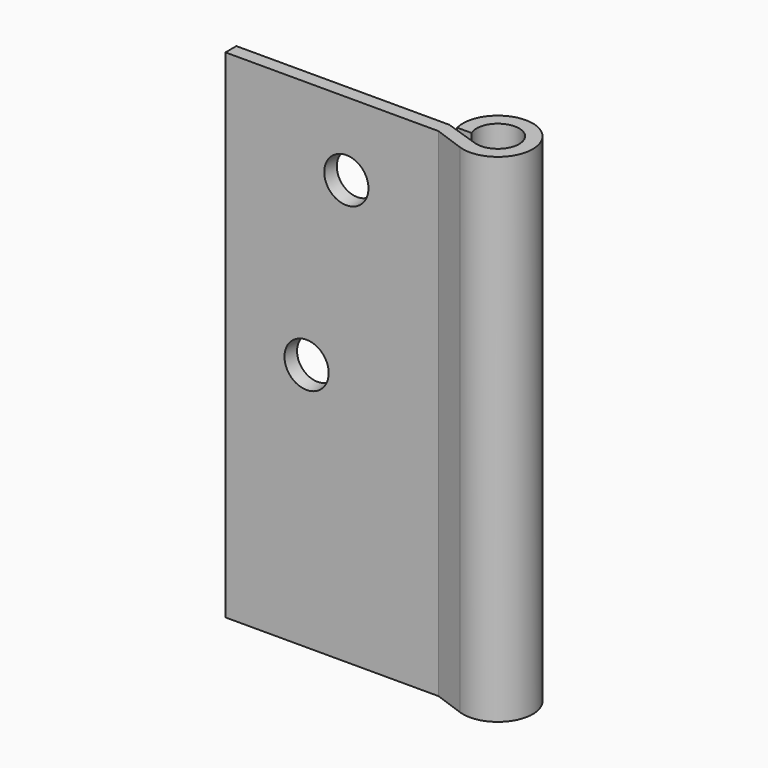
from build123d import *

# Parameters (mm, degrees)
F1_DEPTH = 292
F3_R     = 12
F2_R     = 12.973192
F2_R_2   = 12.9794


with BuildPart() as f1:
    # F0 (on Top) → F1 (new body)
    with BuildSketch(Plane.XY):
        with BuildLine():
            Line((20.542224, -6.856897), (0, 0))
            Line((0, 0), (-125, 0))
            Line((-125, 0), (-125, -8))
            Line((-125, -8), (0, -8))
            Line((0, -8), (17.58743, -14.299388))
            ThreePointArc((17.58743, -14.299388), (39.685209, 18.77169), (4.619105, 0))
            Line((4.619105, 0), (13.043561, 0))
            ThreePointArc((13.043561, 0), (32.935269, 14.224762), (20.542224, -6.856897))
        make_face()
    extrude(amount=F1_DEPTH)

    # F3 (on Front) → F4 section 0
    with BuildSketch(Plane.XZ):
        with Locations((-54.026808, 249.026808)):
            Circle(F3_R)
    # F2 (on face) → F4 section 1
    with BuildSketch(Plane.XZ.offset(8)):
        with Locations((-54.026808, 249.026808)):
            Circle(F2_R)
    loft(mode=Mode.SUBTRACT)

    # F2 (on face) → F5 section 0
    with BuildSketch(Plane.XZ.offset(8)):
        with Locations((-77.376664, 146)):
            Circle(F2_R_2)
    # F3 (on Front) → F5 section 1
    with BuildSketch(Plane.XZ):
        with Locations((-77.376664, 146)):
            Circle(F3_R)
    loft(mode=Mode.SUBTRACT)


solid = f1.part
